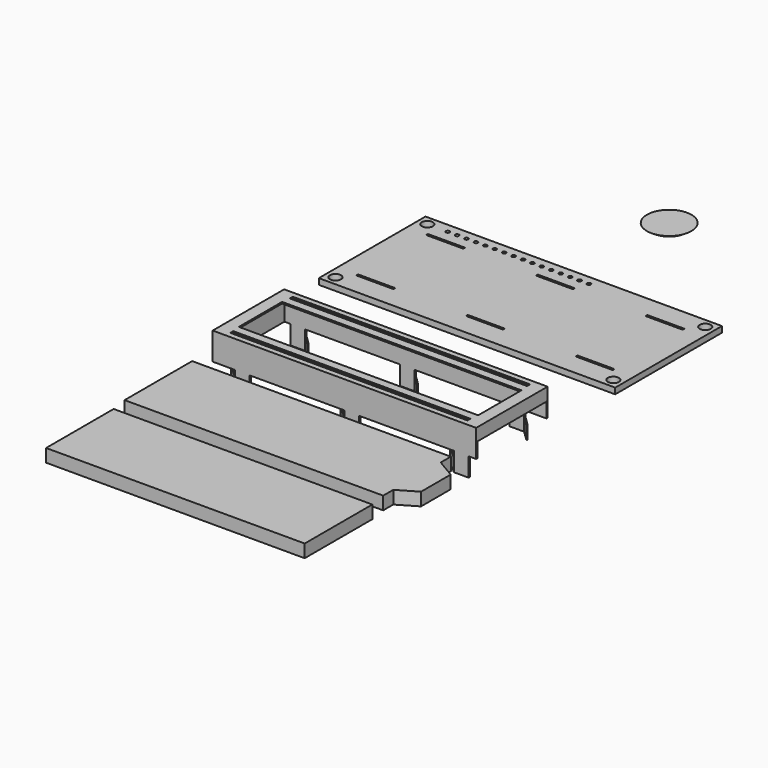
from build123d import *

# Parameters (mm, degrees)
F0_W      = 80
F0_H      = 36
F1_DEPTH  = 1.6
F2_R      = 1.5
F3_DEPTH  = 1.601
F4_R      = 0.5
F5_DEPTH  = 1.601
F6_W      = 10
F6_H      = 0.6
F7_DEPTH  = 1.601
F8_W      = 71.1
F8_H      = 24.1
F9_DEPTH  = 7.4
F10_W     = 64
F10_H     = 1
F11_DEPTH = 0.2
F12_T     = -0.4
F13_W     = 64.6
F13_H     = 14.6
F14_DEPTH = 7.401
F15_W     = 23.3
F15_H     = 4
F16_DEPTH = 0.4
F17_W     = 4
F17_H     = 0.4
F18_DEPTH = 1.6
F20_DEPTH = 3.5
F22_DEPTH = 3.5
F23_W     = 69.8
F23_H     = 22.8
F24_DEPTH = 3.5


with BuildPart() as f1:
    # F0 (on Top) → F1 (new body)
    with BuildSketch(Plane.XY):
        Rectangle(F0_W, F0_H)
    extrude(amount=F1_DEPTH)

    # F2 (on Top) → F3 (cut, through all)
    with BuildSketch(Plane.XY):
        with Locations((-37.5, 15.5)):
            Circle(F2_R)
        with Locations((-37.5, -15.5)):
            Circle(F2_R)
        with Locations((37.5, -15.5)):
            Circle(F2_R)
        with Locations((37.5, 15.5)):
            Circle(F2_R)
    extrude(amount=F3_DEPTH, mode=Mode.SUBTRACT)

    # F4 (on Top) → F5 (cut, through all)
    with BuildSketch(Plane.XY):
        with Locations((-32, 15.5)):
            Circle(F4_R)
        with Locations((-29.46, 15.5)):
            Circle(F4_R)
        with Locations((-26.92, 15.5)):
            Circle(F4_R)
        with Locations((-24.38, 15.5)):
            Circle(F4_R)
        with Locations((-21.84, 15.5)):
            Circle(F4_R)
        with Locations((-19.3, 15.5)):
            Circle(F4_R)
        with Locations((-16.76, 15.5)):
            Circle(F4_R)
        with Locations((-14.22, 15.5)):
            Circle(F4_R)
        with Locations((-11.68, 15.5)):
            Circle(F4_R)
        with Locations((-9.14, 15.5)):
            Circle(F4_R)
        with Locations((-6.6, 15.5)):
            Circle(F4_R)
        with Locations((-4.06, 15.5)):
            Circle(F4_R)
        with Locations((-1.52, 15.5)):
            Circle(F4_R)
        with Locations((1.02, 15.5)):
            Circle(F4_R)
        with Locations((3.56, 15.5)):
            Circle(F4_R)
        with Locations((6.1, 15.5)):
            Circle(F4_R)
    extrude(amount=F5_DEPTH, mode=Mode.SUBTRACT)

    # F6 (on Top) → F7 (cut, through all)
    with BuildSketch(Plane.XY):
        with Locations((-29.6, 11.8)):
            Rectangle(F6_W, F6_H)
        with Locations((0, 11.8)):
            Rectangle(F6_W, F6_H)
        with Locations((29.6, 11.8)):
            Rectangle(F6_W, F6_H)
        with Locations((-29.6, -11.8)):
            Rectangle(F6_W, F6_H)
        with Locations((0, -11.8)):
            Rectangle(F6_W, F6_H)
        with Locations((29.6, -11.8)):
            Rectangle(F6_W, F6_H)
    extrude(amount=F7_DEPTH, mode=Mode.SUBTRACT)


with BuildPart() as f9:
    # F8 (on Top) → F9 (new body)
    with BuildSketch(Plane.XY):
        with Locations((0, -47.307565732)):
            Rectangle(F8_W, F8_H)
    extrude(amount=F9_DEPTH)

    # F10 (on face) → F11 (cut)
    with BuildSketch(Plane.XY.offset(7.4)):
        with Locations((0, -37.257565732)):
            Rectangle(F10_W, F10_H)
        with Locations((0, -57.357565732)):
            Rectangle(F10_W, F10_H)
    extrude(amount=-F11_DEPTH, mode=Mode.SUBTRACT)

    # F12
    f12_openings = [f9.faces().sort_by_distance(p)[0] for p in [
        (0, -47.307566, 0),
    ]]
    offset(amount=F12_T, openings=f12_openings, kind=Kind.INTERSECTION)

    # F13 (on face) → F14 (cut, through all)
    with BuildSketch(Plane.XY.offset(7.4)):
        with Locations((0, -47.307565732)):
            Rectangle(F13_W, F13_H)
    extrude(amount=-F14_DEPTH, mode=Mode.SUBTRACT)

    # F15 (on face) → F16 (cut, through all)
    with BuildSketch(Plane.YZ.offset(35.55)):
        with Locations((-47.307565732, 2)):
            Rectangle(F15_W, F15_H)
    extrude(amount=-F16_DEPTH, mode=Mode.SUBTRACT)

    # F17 (on face) → F18 (join)
    with BuildSketch(Plane(origin=(0, 0, 0), x_dir=(1, 0, 0), z_dir=(0, 0, -1))):
        with Locations((31.55, 59.157565732)):
            Rectangle(F17_W, F17_H)
        with Locations((-2, 35.457565732)):
            Rectangle(F17_W, F17_H)
        with Locations((-31.55, 35.457565732)):
            Rectangle(F17_W, F17_H)
        with Locations((-27.55, 59.157565732)):
            Rectangle(F17_W, F17_H)
        with Locations((27.55, 35.457565732)):
            Rectangle(F17_W, F17_H)
        with Locations((2, 59.157565732)):
            Rectangle(F17_W, F17_H)
    extrude(amount=F18_DEPTH)

    # F19 (on face) → F20 (join)
    with BuildSketch(Plane(origin=(0, 0, -1.6), x_dir=(1, 0, 0), z_dir=(0, 0, -1))):
        Polygon((26.5102631693, 56.357565732), (29.55, 58.957565732), (33.55, 58.957565732), (33.55, 59.357565732), (29.55, 59.357565732), (26.3126802753, 56.588565732), align=None)
        Polygon((-3.0397368307, 56.357565732), (0, 58.957565732), (4, 58.957565732), (4, 59.357565732), (0, 59.357565732), (-3.2373197247, 56.588565732), align=None)
        Polygon((-29.55, 58.957565732), (-25.55, 58.957565732), (-25.55, 59.357565732), (-29.55, 59.357565732), (-32.7873197247, 56.588565732), (-32.5897368307, 56.357565732), align=None)
        Polygon((-33.55, 35.657565732), (-33.55, 35.257565732), (-29.55, 35.257565732), (-26.6888776043, 38.0529151979), (-26.8888235283, 38.257565732), (-29.55, 35.657565732), align=None)
        Polygon((-4, 35.657565732), (-4, 35.257565732), (0, 35.257565732), (2.8611223957, 38.0529151979), (2.6611764717, 38.257565732), (0, 35.657565732), align=None)
        Polygon((25.55, 35.657565732), (25.55, 35.257565732), (29.55, 35.257565732), (32.4111223957, 38.0529151979), (32.2111764717, 38.257565732), (29.55, 35.657565732), align=None)
    extrude(amount=F20_DEPTH)


with BuildPart() as f22:
    # F21 (on Top) → F22 (new body)
    with BuildSketch(Plane.XY):
        Polygon((34.9, -67.0998139858), (-34.9, -67.0998139858), (-34.9, -89.8998139858), (34.9, -89.8998139858), (34.9, -86.4998139858), (40, -83.4998139858), (40, -73.4998139858), (34.9, -70.4998139858), align=None)
    extrude(amount=F22_DEPTH)


with BuildPart() as f24:
    # F23 (on Top) → F24 (new body)
    with BuildSketch(Plane.XY):
        with Locations((0.7294171095, -105.8934174538)):
            Rectangle(F23_W, F23_H)
    extrude(amount=F24_DEPTH)


with BuildPart() as f26:
    # F25 (on Right) → F26 (revolve)
    with BuildSketch(Plane.YZ):
        with BuildLine():
            Line((50.2053892224, 0), (44.2053892224, 0))
            ThreePointArc((44.2053892224, 0), (47.0431115622, -1.4868329805), (50.2053892224, -2))
            Line((50.2053892224, -2), (50.2053892224, 0))
        make_face()
    revolve(axis=Axis((0, 50.2053892224, -1), (0, 0, -1)))


solid = Compound([f1.part, f9.part, f22.part, f24.part, f26.part])
